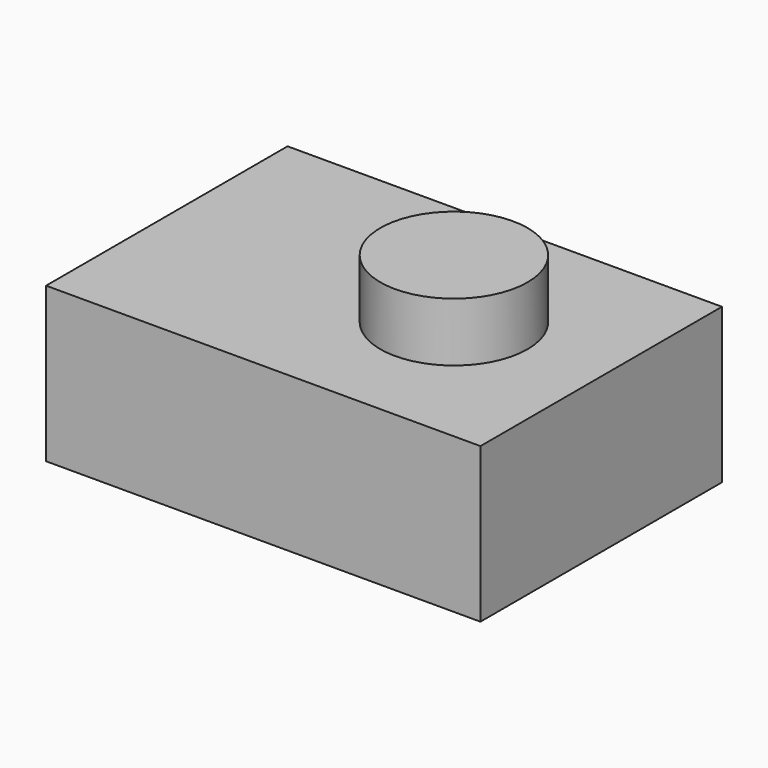
from build123d import *

# Parameters (mm, degrees)
F0_W     = 59
F0_H     = 41
F1_DEPTH = 21
F2_R     = 10
F3_DEPTH = 8
F4_R     = 6
F5_DEPTH = 1


with BuildPart() as f1:
    # F0 (on Top) → F1 (new body)
    with BuildSketch(Plane.XY):
        Rectangle(F0_W, F0_H)
    extrude(amount=F1_DEPTH)

    # F2 (on face) → F3 (join)
    with BuildSketch(Plane.XY.offset(21)):
        with Locations((9.5, 0)):
            Circle(F2_R)
    extrude(amount=F3_DEPTH)

    # F4 (on face) → F5 (join)
    with BuildSketch(Plane(origin=(0, 20.5, 0), x_dir=(-1, 0, 0), z_dir=(0, 1, 0))):
        with Locations((17.5, 10.5)):
            Circle(F4_R)
    extrude(amount=F5_DEPTH)


solid = f1.part
